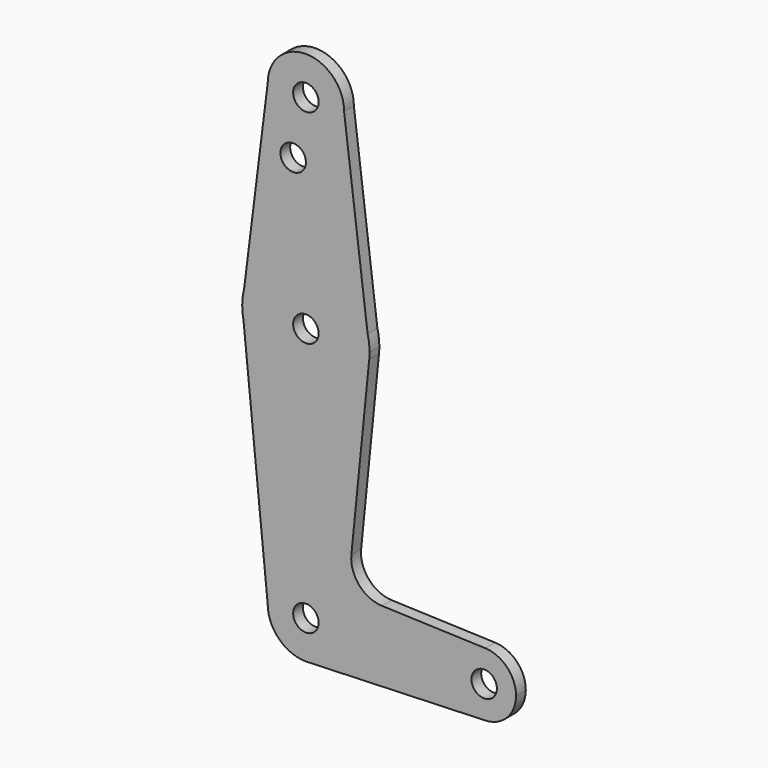
from build123d import *

# Parameters (mm, degrees)
F0_R     = 3.175
F1_DEPTH = 3.048


with BuildPart() as f1:
    # F0 (on Front) → F1 (new body)
    with BuildSketch(Plane.XZ):
        with BuildLine():
            ThreePointArc((0.677344, -9.500886), (6.970557, -6.491299), (9.525, 0))
            ThreePointArc((9.525, 0), (0, 9.525), (-9.525, 0))
            ThreePointArc((-9.525, 0), (-6.735192, -6.735192), (0, -9.525))
            Line((0, -9.525), (0.677344, -9.500886))
        make_face()
        Circle(F0_R, mode=Mode.SUBTRACT)
        with BuildLine():
            ThreePointArc((-9.525, 0), (0, 9.525), (9.525, 0))
            ThreePointArc((9.525, 0), (6.970557, -6.491299), (0.677344, -9.500886))
            Line((0.677344, -9.500886), (44.732405, -7.932475))
            ThreePointArc((44.732405, -7.932475), (36.5125, 0.000539), (44.733482, 7.932436))
            Line((44.733482, 7.932436), (18.9676, 8.853234))
            ThreePointArc((18.9676, 8.853234), (13.2612, 11.571359), (11.341187, 17.593382))
            Line((11.341187, 17.593382), (15.795426, 61.9125))
            ThreePointArc((15.795426, 61.9125), (0.786838, 47.644512), (-15.560644, 60.356436))
            Line((-15.560644, 60.356436), (-9.525, 0))
        make_face()
        with BuildLine():
            ThreePointArc((0, -9.525), (0.338886, -9.51897), (0.677344, -9.500886))
            Line((0.677344, -9.500886), (0, -9.525))
        make_face()
        with BuildLine():
            Line((-15.875, 63.5), (-15.560644, 60.356436))
            ThreePointArc((-15.560644, 60.356436), (0.786838, 47.644512), (15.795426, 61.9125))
            ThreePointArc((15.795426, 61.9125), (15.855094, 62.705253), (15.875, 63.5))
            Line((15.875, 63.5), (15.386538, 67.407692))
            ThreePointArc((15.386538, 67.407692), (0, 79.375), (-15.386538, 67.407692))
            Line((-15.386538, 67.407692), (-15.875, 63.5))
        make_face()
        with Locations((0, 63.5)):
            Circle(F0_R, mode=Mode.SUBTRACT)
        with BuildLine():
            ThreePointArc((-15.875, 63.5), (-15.796215, 61.920378), (-15.560644, 60.356436))
            Line((-15.560644, 60.356436), (-15.875, 63.5))
        make_face()
        with BuildLine():
            ThreePointArc((44.733482, 7.932436), (36.5125, 0.000539), (44.732405, -7.932475))
            ThreePointArc((44.732405, -7.932475), (50.161633, -5.51191), (52.3875, 0))
            ThreePointArc((52.3875, 0), (50.162007, 5.511523), (44.733482, 7.932436))
        make_face()
        with Locations((44.45, 0)):
            Circle(F0_R, mode=Mode.SUBTRACT)
        with BuildLine():
            ThreePointArc((-15.386538, 67.407692), (-15.752411, 65.469051), (-15.875, 63.5))
            Line((-15.875, 63.5), (-15.386538, 67.407692))
        make_face()
        with BuildLine():
            Line((-9.525, 114.3), (-15.386538, 67.407692))
            ThreePointArc((-15.386538, 67.407692), (0, 79.375), (15.386538, 67.407692))
            Line((15.386538, 67.407692), (9.525, 114.3))
            ThreePointArc((9.525, 114.3), (0, 104.775), (-9.525, 114.3))
        make_face()
        with Locations((-3.175, 100.0252)):
            Circle(F0_R, mode=Mode.SUBTRACT)
        with BuildLine():
            Line((15.386538, 67.407692), (15.875, 63.5))
            ThreePointArc((15.875, 63.5), (15.752411, 65.469051), (15.386538, 67.407692))
        make_face()
        with BuildLine():
            ThreePointArc((9.525, 114.3), (0, 123.825), (-9.525, 114.3))
            ThreePointArc((-9.525, 114.3), (0, 104.775), (9.525, 114.3))
        make_face()
        with Locations((0, 114.3)):
            Circle(F0_R, mode=Mode.SUBTRACT)
    extrude(amount=F1_DEPTH)


solid = f1.part
